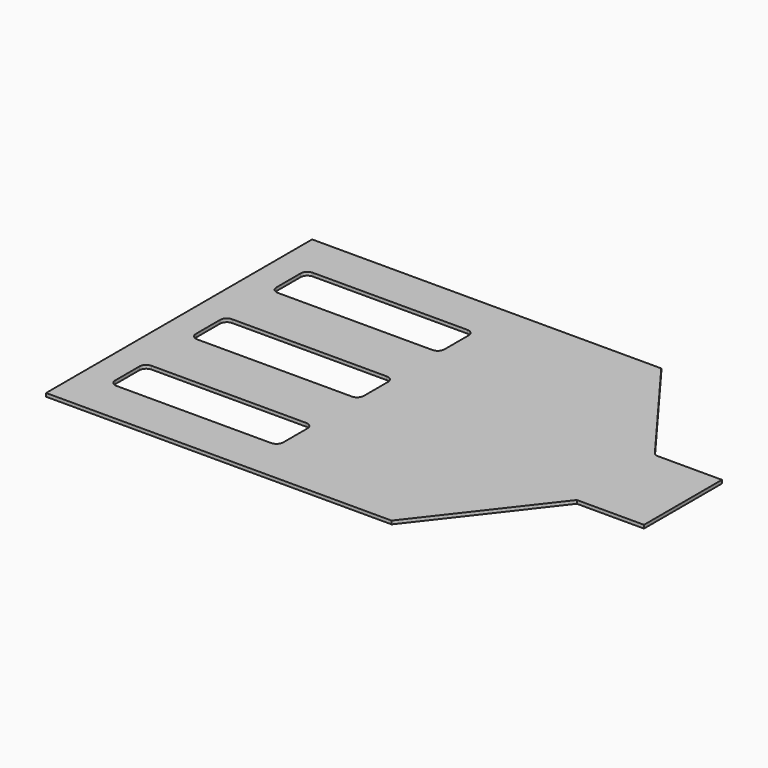
from build123d import *

# Parameters (mm, degrees)
F0_W     = 150
F0_H     = 99
F1_DEPTH = 1
F3_DEPTH = 25


with BuildPart() as f1:
    # F0 (on Top) → F1 (new body)
    with BuildSketch(Plane.XY):
        Rectangle(F0_W, F0_H)
    extrude(amount=F1_DEPTH)

    # F2 (on face) → F3 (cut)
    with BuildSketch(Plane.XY.offset(1)):
        with BuildLine():
            ThreePointArc((-64.4, 36.5), (-65.814214, 35.914214), (-66.4, 34.5))
            Line((-66.4, 34.5), (-66.4, 25.5))
            ThreePointArc((-66.4, 25.5), (-65.814214, 24.085786), (-64.4, 23.5))
            Line((-64.4, 23.5), (-18.4, 23.5))
            ThreePointArc((-18.4, 23.5), (-16.985786, 24.085786), (-16.4, 25.5))
            Line((-16.4, 25.5), (-16.4, 34.5))
            ThreePointArc((-16.4, 34.5), (-16.985786, 35.914214), (-18.4, 36.5))
            Line((-18.4, 36.5), (-64.4, 36.5))
        make_face()
        with BuildLine():
            ThreePointArc((-64.4, 6.5), (-65.814214, 5.914214), (-66.4, 4.5))
            Line((-66.4, 4.5), (-66.4, -4.5))
            ThreePointArc((-66.4, -4.5), (-65.814214, -5.914214), (-64.4, -6.5))
            Line((-64.4, -6.5), (-18.4, -6.5))
            ThreePointArc((-18.4, -6.5), (-16.985786, -5.914214), (-16.4, -4.5))
            Line((-16.4, -4.5), (-16.4, 4.5))
            ThreePointArc((-16.4, 4.5), (-16.985786, 5.914214), (-18.4, 6.5))
            Line((-18.4, 6.5), (-64.4, 6.5))
        make_face()
        with BuildLine():
            ThreePointArc((-64.4, -23.5), (-65.814214, -24.085786), (-66.4, -25.5))
            Line((-66.4, -25.5), (-66.4, -34.5))
            ThreePointArc((-66.4, -34.5), (-65.814214, -35.914214), (-64.4, -36.5))
            Line((-64.4, -36.5), (-18.4, -36.5))
            ThreePointArc((-18.4, -36.5), (-16.985786, -35.914214), (-16.4, -34.5))
            Line((-16.4, -34.5), (-16.4, -25.5))
            ThreePointArc((-16.4, -25.5), (-16.985786, -24.085786), (-18.4, -23.5))
            Line((-18.4, -23.5), (-64.4, -23.5))
        make_face()
        with BuildLine():
            Line((56.004556, 14.5), (75, 14.5))
            Line((75, 14.5), (75, 49.5))
            Line((75, 49.5), (28.948601, 49.5))
            Line((28.948601, 49.5), (54.400197, 15.305834))
            ThreePointArc((54.400197, 15.305834), (55.106873, 14.712777), (56.004556, 14.5))
        make_face()
        Polygon((75, -49.5), (75, -14.5), (55, -14.5), (27.865743, -49.5), align=None)
    extrude(amount=-F3_DEPTH, mode=Mode.SUBTRACT)


solid = f1.part
